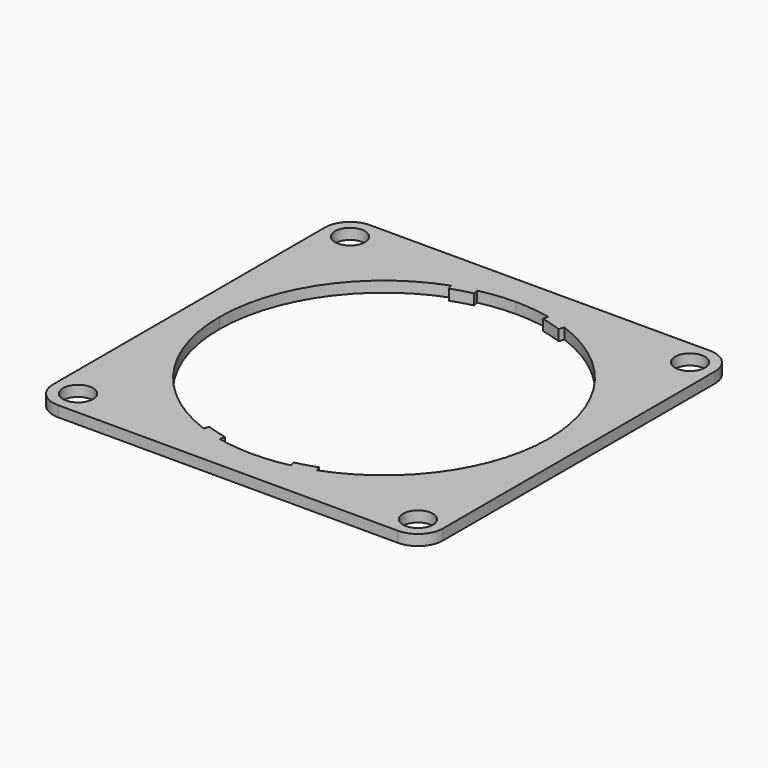
from build123d import *

# Parameters (mm, degrees)
SKETCH004_R                = 4.2
PAD001_DEPTH               = 3
SKETCH004_MIRRORED003_2_R  = 4.2
PAD001_MIRRORED003_2_DEPTH = 3


with BuildPart() as part:
    # Sketch004 → Pad001 (new body)
    with BuildSketch(Plane.XY):
        with BuildLine():
            ThreePointArc((46.15, 0), (37.838009, 26.421725), (15.896152, 43.325914))
            Line((15.379484, 41.917705), (15.896152, 43.325914))
            ThreePointArc((15.379484, 41.917705), (12.528311, 42.856317), (9.620516, 43.60124))
            Line((9.620516, 43.60124), (9.943714, 45.066008))
            ThreePointArc((9.943714, 45.066008), (5.001312, 45.878202), (0, 46.15))
            Line((0, 46.15), (0, 54.625))
            Line((47.624993, 54.625), (0, 54.625))
            ThreePointArc((54.625, 47.625), (52.574745, 52.57475), (47.624993, 54.625))
            Line((54.625, 47.625), (54.625, 0))
            Line((46.15, 0), (54.625, 0))
        make_face()
        with Locations((47.625, 47.625)):
            Circle(SKETCH004_R, mode=Mode.SUBTRACT)
    pad001 = extrude(amount=PAD001_DEPTH)

    # Sketch004 Mirrored003 2 → Pad001 Mirrored003 2 (add)
    with BuildSketch(Plane(origin=(0, 0, 0), x_dir=(-1, 0, 0), z_dir=(0, 0, -1))):
        with BuildLine():
            ThreePointArc((46.15, 0), (37.838009, 26.421725), (15.896152, 43.325914))
            Line((15.379484, 41.917705), (15.896152, 43.325914))
            ThreePointArc((15.379484, 41.917705), (12.528311, 42.856317), (9.620516, 43.60124))
            Line((9.620516, 43.60124), (9.943714, 45.066008))
            ThreePointArc((9.943714, 45.066008), (5.001312, 45.878202), (0, 46.15))
            Line((0, 46.15), (0, 54.625))
            Line((47.624993, 54.625), (0, 54.625))
            ThreePointArc((54.625, 47.625), (52.574745, 52.57475), (47.624993, 54.625))
            Line((54.625, 47.625), (54.625, 0))
            Line((46.15, 0), (54.625, 0))
        make_face()
        with Locations((47.625, 47.625)):
            Circle(SKETCH004_MIRRORED003_2_R, mode=Mode.SUBTRACT)
    pad001_mirrored003_2 = extrude(amount=-PAD001_MIRRORED003_2_DEPTH)

    # Mirrored004: Pad001, Pad001 Mirrored003 2 across Sketch004 H_Axis
    add(pad001.mirror(Plane.ZX))
    add(pad001_mirrored003_2.mirror(Plane.ZX))


solid = part.part
